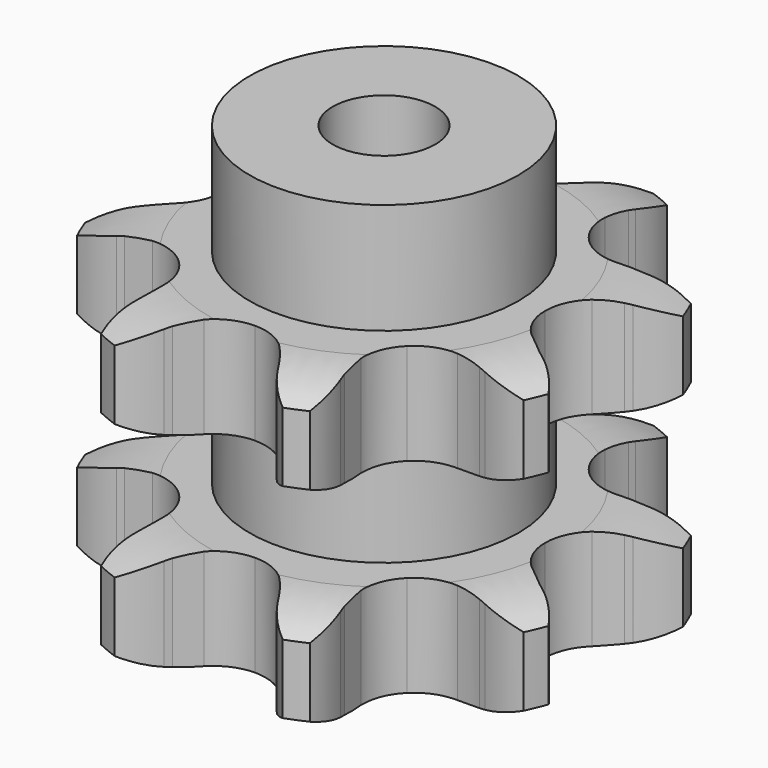
from build123d import *

# Parameters (mm, degrees)
PAD_DEPTH         = 47.7
SKETCH001_R       = 21
PAD001_DEPTH      = 65
SKETCH002_R       = 8
POCKET_DEPTH      = 0.0010001
POCKET_DEPTH_BACK = 65.001


with BuildPart() as part:
    # Sprocket → Pad (new body)
    with BuildSketch(Plane.XY):
        with BuildLine():
            ThreePointArc((-15.5027502158, 37.426949825), (-11.7234830979, 35.174523796), (-8.852483738, 31.8408103051))
            Line((-8.852483738, 31.8408103051), (-8.3018676709, 30.9422865471))
            ThreePointArc((-8.3018676709, 30.9422865471), (-7.1827940253, 29.2987067587), (-5.9113422311, 27.7699521412))
            ThreePointArc((-5.9113422311, 27.7699521412), (-3.2291424099, 25.8479149306), (0, 25.1688993079))
            ThreePointArc((0, 25.1688993079), (3.2291424099, 25.8479149306), (5.9113422311, 27.7699521412))
            ThreePointArc((5.9113422311, 27.7699521412), (7.1827940253, 29.2987067587), (8.3018676709, 30.9422865471))
            Line((8.3018676709, 30.9422865471), (8.852483738, 31.8408103051))
            ThreePointArc((8.852483738, 31.8408103051), (11.7234830979, 35.174523796), (15.5027502158, 37.426949825))
            ThreePointArc((15.5027502158, 37.426949825), (16.5823899035, 33.1618986988), (16.2552016038, 28.7745041667))
            Line((16.2552016038, 28.7745041667), (16.0091937163, 27.7498075694))
            ThreePointArc((16.0091937163, 27.7498075694), (15.6383118659, 25.7963165922), (15.4563712948, 23.8162716498))
            ThreePointArc((15.4563712948, 23.8162716498), (15.9938874315, 20.5605844224), (17.7970993756, 17.7970993756))
            ThreePointArc((17.7970993756, 17.7970993756), (20.5605844224, 15.9938874315), (23.8162716498, 15.4563712948))
            Line((23.8162716498, 15.4563712948), (27.7498075694, 16.0091937163))
            ThreePointArc((27.7498075694, 16.0091937163), (28.2605917643, 16.1387126211), (28.7745041667, 16.2552016038))
            ThreePointArc((28.7745041667, 16.2552016038), (33.1618986988, 16.5823899035), (37.426949825, 15.5027502158))
            ThreePointArc((37.426949825, 15.5027502158), (35.174523796, 11.7234830979), (31.8408103051, 8.852483738))
            Line((31.8408103051, 8.852483738), (30.9422865471, 8.3018676709))
            ThreePointArc((30.9422865471, 8.3018676709), (29.2987067587, 7.1827940253), (27.7699521412, 5.9113422311))
            ThreePointArc((27.7699521412, 5.9113422311), (25.8479149306, 3.2291424099), (25.1688993079, 0))
            ThreePointArc((25.1688993079, 0), (25.8479149306, -3.2291424099), (27.7699521412, -5.9113422311))
            Line((27.7699521412, -5.9113422311), (30.9422865471, -8.3018676709))
            ThreePointArc((30.9422865471, -8.3018676709), (31.3950492109, -8.5714629429), (31.8408103051, -8.852483738))
            ThreePointArc((31.8408103051, -8.852483738), (35.174523796, -11.7234830979), (37.426949825, -15.5027502158))
            ThreePointArc((37.426949825, -15.5027502158), (33.1618986988, -16.5823899035), (28.7745041667, -16.2552016038))
            Line((28.7745041667, -16.2552016038), (27.7498075694, -16.0091937163))
            ThreePointArc((27.7498075694, -16.0091937163), (25.7963165922, -15.6383118659), (23.8162716498, -15.4563712948))
            ThreePointArc((23.8162716498, -15.4563712948), (20.5605844224, -15.9938874315), (17.7970993756, -17.7970993756))
            ThreePointArc((17.7970993756, -17.7970993756), (15.9938874315, -20.5605844224), (15.4563712948, -23.8162716498))
            Line((15.4563712948, -23.8162716498), (16.0091937163, -27.7498075694))
            ThreePointArc((16.0091937163, -27.7498075694), (16.1387126211, -28.2605917643), (16.2552016038, -28.7745041667))
            ThreePointArc((16.2552016038, -28.7745041667), (16.5823899035, -33.1618986988), (15.5027502158, -37.426949825))
            ThreePointArc((15.5027502158, -37.426949825), (11.7234830979, -35.174523796), (8.852483738, -31.8408103051))
            Line((8.852483738, -31.8408103051), (8.3018676709, -30.9422865471))
            ThreePointArc((8.3018676709, -30.9422865471), (7.1827940253, -29.2987067587), (5.9113422311, -27.7699521412))
            ThreePointArc((5.9113422311, -27.7699521412), (3.2291424099, -25.8479149306), (0, -25.1688993079))
            ThreePointArc((0, -25.1688993079), (-3.2291424099, -25.8479149306), (-5.9113422311, -27.7699521412))
            Line((-5.9113422311, -27.7699521412), (-8.3018676709, -30.9422865471))
            ThreePointArc((-8.3018676709, -30.9422865471), (-8.5714629429, -31.3950492109), (-8.852483738, -31.8408103051))
            ThreePointArc((-8.852483738, -31.8408103051), (-11.7234830979, -35.174523796), (-15.5027502158, -37.426949825))
            ThreePointArc((-15.5027502158, -37.426949825), (-16.5823899035, -33.1618986988), (-16.2552016038, -28.7745041667))
            Line((-16.2552016038, -28.7745041667), (-16.0091937163, -27.7498075694))
            ThreePointArc((-16.0091937163, -27.7498075694), (-15.6383118659, -25.7963165922), (-15.4563712948, -23.8162716498))
            ThreePointArc((-15.4563712948, -23.8162716498), (-15.9938874315, -20.5605844224), (-17.7970993756, -17.7970993756))
            ThreePointArc((-17.7970993756, -17.7970993756), (-20.5605844224, -15.9938874315), (-23.8162716498, -15.4563712948))
            Line((-23.8162716498, -15.4563712948), (-27.7498075694, -16.0091937163))
            ThreePointArc((-27.7498075694, -16.0091937163), (-28.2605917643, -16.1387126211), (-28.7745041667, -16.2552016038))
            ThreePointArc((-28.7745041667, -16.2552016038), (-33.1618986988, -16.5823899035), (-37.426949825, -15.5027502158))
            ThreePointArc((-37.426949825, -15.5027502158), (-35.174523796, -11.7234830979), (-31.8408103051, -8.852483738))
            Line((-31.8408103051, -8.852483738), (-30.9422865471, -8.3018676709))
            ThreePointArc((-30.9422865471, -8.3018676709), (-29.2987067587, -7.1827940253), (-27.7699521412, -5.9113422311))
            ThreePointArc((-27.7699521412, -5.9113422311), (-25.8479149306, -3.2291424099), (-25.1688993079, 0))
            ThreePointArc((-25.1688993079, 0), (-25.8479149306, 3.2291424099), (-27.7699521412, 5.9113422311))
            Line((-27.7699521412, 5.9113422311), (-30.9422865471, 8.3018676709))
            ThreePointArc((-30.9422865471, 8.3018676709), (-31.3950492109, 8.5714629429), (-31.8408103051, 8.852483738))
            ThreePointArc((-31.8408103051, 8.852483738), (-35.174523796, 11.7234830979), (-37.426949825, 15.5027502158))
            ThreePointArc((-37.426949825, 15.5027502158), (-33.1618986988, 16.5823899035), (-28.7745041667, 16.2552016038))
            Line((-28.7745041667, 16.2552016038), (-27.7498075694, 16.0091937163))
            ThreePointArc((-27.7498075694, 16.0091937163), (-25.7963165922, 15.6383118659), (-23.8162716498, 15.4563712948))
            ThreePointArc((-23.8162716498, 15.4563712948), (-20.5605844224, 15.9938874315), (-17.7970993756, 17.7970993756))
            ThreePointArc((-17.7970993756, 17.7970993756), (-15.9938874315, 20.5605844224), (-15.4563712948, 23.8162716498))
            Line((-15.4563712948, 23.8162716498), (-16.0091937163, 27.7498075694))
            ThreePointArc((-16.0091937163, 27.7498075694), (-16.1387126211, 28.2605917643), (-16.2552016038, 28.7745041667))
            ThreePointArc((-16.2552016038, 28.7745041667), (-16.5823899035, 33.1618986988), (-15.5027502158, 37.426949825))
        make_face()
    extrude(amount=PAD_DEPTH)

    # Sketch → Groove (revolve, cut)
    with BuildSketch(Plane.XZ):
        with BuildLine():
            ThreePointArc((27.3757022694, 0), (33.0765793949, 0.6326982121), (38.5, 2.5))
            Line((38.5, 2.5), (38.5, 13.3))
            ThreePointArc((38.5, 13.3), (33.0765793949, 15.1673017879), (27.3757022694, 15.8))
            Line((21, 15.8), (27.3757022694, 15.8))
            Line((21, 31.9), (21, 15.8))
            Line((27.3757022694, 31.9), (21, 31.9))
            ThreePointArc((27.3757022694, 31.9), (33.0765793949, 32.5326982121), (38.5, 34.4))
            Line((38.5, 34.4), (38.5, 45.2))
            ThreePointArc((38.5, 45.2), (33.0765793949, 47.0673017879), (27.3757022694, 47.7))
            Line((27.3757022694, 47.7), (48.5, 47.7))
            Line((48.5, 47.7), (48.5, 0))
            Line((27.3757022694, 0), (48.5, 0))
        make_face()
    revolve(axis=Axis((0, 0, 0), (0, 0, 1)), mode=Mode.SUBTRACT)

    # Sketch001 → Pad001 (join)
    with BuildSketch(Plane.XY):
        Circle(SKETCH001_R)
    extrude(amount=PAD001_DEPTH)

    # Sketch002 → Pocket (cut, two sides)
    with BuildSketch(Plane.XY) as pocket_sk:
        Circle(SKETCH002_R)
    extrude(amount=-POCKET_DEPTH, mode=Mode.SUBTRACT)
    extrude(pocket_sk.sketch, amount=POCKET_DEPTH_BACK, mode=Mode.SUBTRACT)


solid = part.part
